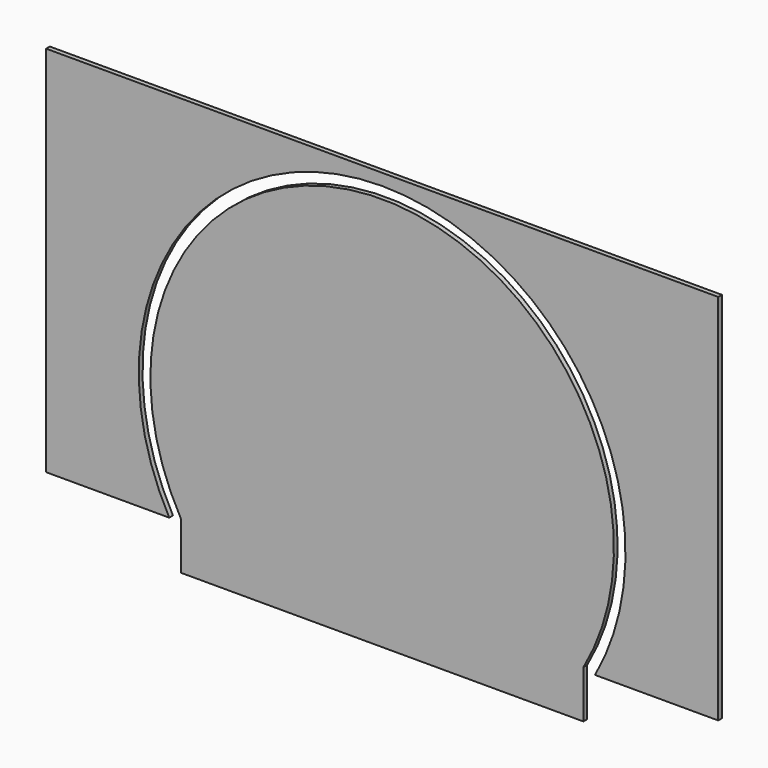
from build123d import *

# Parameters (mm, degrees)
F1_DEPTH = 0.1


with BuildPart() as f1:
    # F0 (on Front) → F1 (new body)
    with BuildSketch(Plane.XZ):
        with BuildLine():
            Line((7.25, 9.008362), (-7.25, 9.008362))
            Line((-7.25, 9.008362), (-7.25, 0.964738))
            Line((-7.25, 0.964738), (-4.592655, 0.964738))
            ThreePointArc((-4.592655, 0.964738), (0, 8.758362), (4.592655, 0.964738))
            Line((4.592655, 0.964738), (7.25, 0.964738))
            Line((7.25, 0.964738), (7.25, 9.008362))
        make_face()
        with BuildLine():
            Line((-4.342655, 1.030187), (-4.342655, 0))
            Line((-4.342655, 0), (4.342655, 0))
            Line((4.342655, 0), (4.342655, 1.030187))
            ThreePointArc((4.342655, 1.030187), (0, 8.508362), (-4.342655, 1.030187))
        make_face()
    extrude(amount=F1_DEPTH)


solid = f1.part
